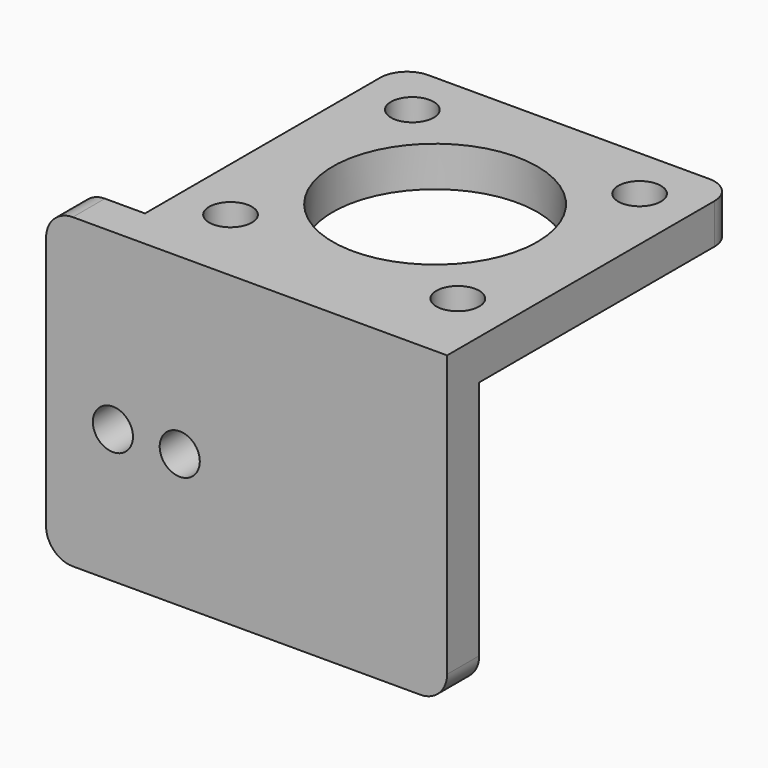
from build123d import *

# Parameters (mm, degrees)
SKETCH_R     = 7.65
SKETCH_R_2   = 1.6
PAD_DEPTH    = 3
SKETCH001_W  = 30
SKETCH001_H  = 3
PAD001_DEPTH = 20
SKETCH002_R  = 1.5
POCKET_DEPTH = 27.001
PAD002_DEPTH = 5
FILLET_R     = 2
FILLET001_R  = 2
FILLET002_R  = 2


with BuildPart() as part:
    # Sketch → Pad (new body)
    with BuildSketch(Plane.XY):
        Polygon((-12.5, -11.5), (-12.5, 12.5), (12.5, 12.5), (12.5, -14.5), (-17.5, -14.5), (-17.5, -11.5), align=None)
        Circle(SKETCH_R, mode=Mode.SUBTRACT)
        with Locations((-8.5, 8.5)):
            Circle(SKETCH_R_2, mode=Mode.SUBTRACT)
        with Locations((8.5, 8.5)):
            Circle(SKETCH_R_2, mode=Mode.SUBTRACT)
        with Locations((8.5, -8.5)):
            Circle(SKETCH_R_2, mode=Mode.SUBTRACT)
        with Locations((-8.5, -8.5)):
            Circle(SKETCH_R_2, mode=Mode.SUBTRACT)
    extrude(amount=PAD_DEPTH)

    # Sketch001 (on Face12 of Pad) → Pad001 (join)
    with BuildSketch(Plane(origin=(0, 0, 0), x_dir=(1, 0, 0), z_dir=(0, 0, -1))):
        with Locations((-2.5, 13)):
            Rectangle(SKETCH001_W, SKETCH001_H)
    extrude(amount=PAD001_DEPTH)

    # Sketch002 (on Face18 of Pad001) → Pocket (cut, through all)
    with BuildSketch(Plane.XZ.offset(14.5)):
        with Locations((-12.5, -10)):
            Circle(SKETCH002_R)
        with Locations((-7.5, -10)):
            Circle(SKETCH002_R)
    extrude(amount=-POCKET_DEPTH, mode=Mode.SUBTRACT)

    # Sketch003 (on Face16 of Pocket) → Pad002 (join, symmetric)
    with BuildSketch(Plane.YZ):
        Polygon((-11.5, 0), (-8.5, 0), (-11.5, -3), align=None)
    extrude(amount=PAD002_DEPTH, both=True)

    # Fillet
    fillet_edges = [part.edges().sort_by_distance(p)[0] for p in [
        (-17.5, -13, 3),
    ]]
    fillet(fillet_edges, radius=FILLET_R)

    # Fillet001
    fillet001_edges = [part.edges().sort_by_distance(p)[0] for p in [
        (12.5, -13, -20),
        (-17.5, -13, -20),
    ]]
    fillet(fillet001_edges, radius=FILLET001_R)

    # Fillet002
    fillet002_edges = [part.edges().sort_by_distance(p)[0] for p in [
        (12.5, 12.5, 1.5),
        (-12.5, 12.5, 1.5),
    ]]
    fillet(fillet002_edges, radius=FILLET002_R)


solid = part.part
